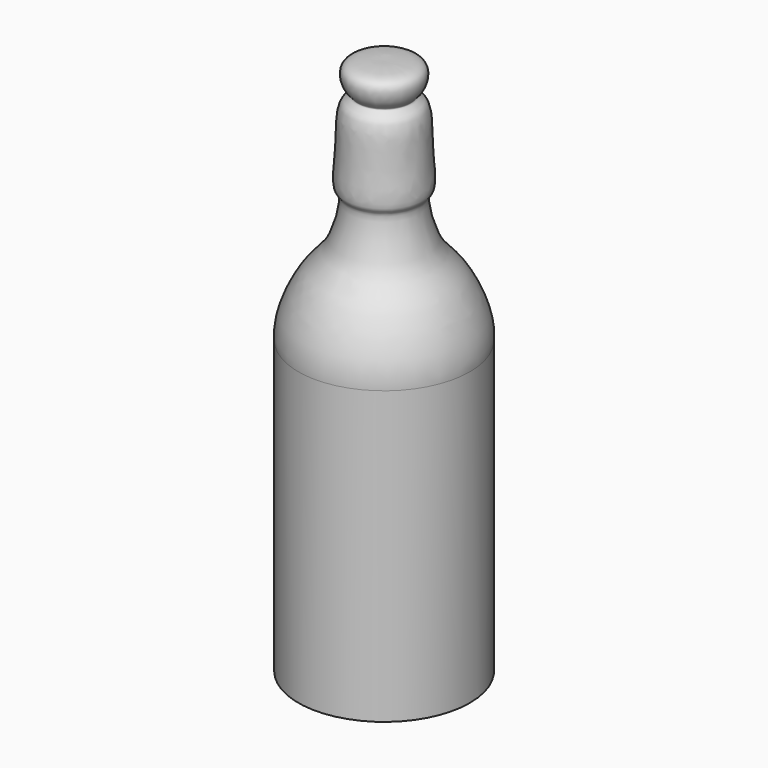
from build123d import *


with BuildPart() as f1:
    # F0 (on Front) → F1 (revolve)
    with BuildSketch(Plane.XZ):
        with BuildLine():
            Line((0, 5.7675112039), (0, 2.089107642))
            add(Edge.make_bspline(
                [(37.5, 0), (30.0822288457, 0.7082408876), (16.2669758726, 2.0273065239), (5.1486195937, 2.0695471256), (0, 2.089107642)],
                knots=[0, 0, 0, 0, 0.5369261908, 1, 1, 1, 1], degree=3))
            Line((37.5, 0), (37.5, 127.3566633463))
            add(Edge.make_bspline(
                [(37.5, 127.3566633463), (38.5600526345, 135.0182526523), (29.78424026, 155.1940918964), (18.9962068989, 161.8653231608), (13.6863515926, 184.0283183975), (18.5023341721, 185.6509991731), (15.8975121109, 203.4819719689), (16.9858271766, 219.3505989133), (10.0095940331, 221.7454834537), (14.2046930265, 224.0822759878), (17.1648637927, 235.2896832836), (6.7190506362, 235.0730005174), (0, 234.9456548691)],
                knots=[0, 0, 0, 0, 0.1537422843, 0.2670330093, 0.3966138074, 0.4498652136, 0.5718185283, 0.6900037454, 0.7504598587, 0.8028448508, 0.8865560872, 1, 1, 1, 1], degree=3))
            Line((0, 234.9456548691), (0, 221.768707037))
            add(Edge.make_bspline(
                [(33.1253297627, 126.7723888159), (34.4039576096, 136.0137426125), (25.3373860205, 154.0787559613), (14.6382900971, 161.4271321653), (9.321429115, 183.4329689785), (14.1038442375, 185.0650863031), (11.7613341286, 202.9733993886), (11.944527036, 218.5490247091), (6.1673294563, 221.864901734), (5.6148529602, 221.8751249119), (0, 221.768707037)],
                knots=[0, 0, 0, 0, 0.1854428351, 0.322093291, 0.4783927157, 0.542624178, 0.6897233872, 0.8322775442, 0.9051992723, 1, 1, 1, 1], degree=3))
            Line((33.1253297627, 126.7723888159), (33.1253297627, 3.6763281096))
            add(Edge.make_bspline(
                [(33.1253297627, 3.6763281096), (27.382132967, 4.3478288821), (16.0858159974, 5.3133223397), (5.3014568717, 5.9608653618), (0, 5.7675112039)],
                knots=[0, 0, 0, 0, 0.5085898214, 1, 1, 1, 1], degree=3))
        make_face()
    revolve(axis=Axis((0, 0, 117.4728274345), (0, 0, 1)))


solid = f1.part
